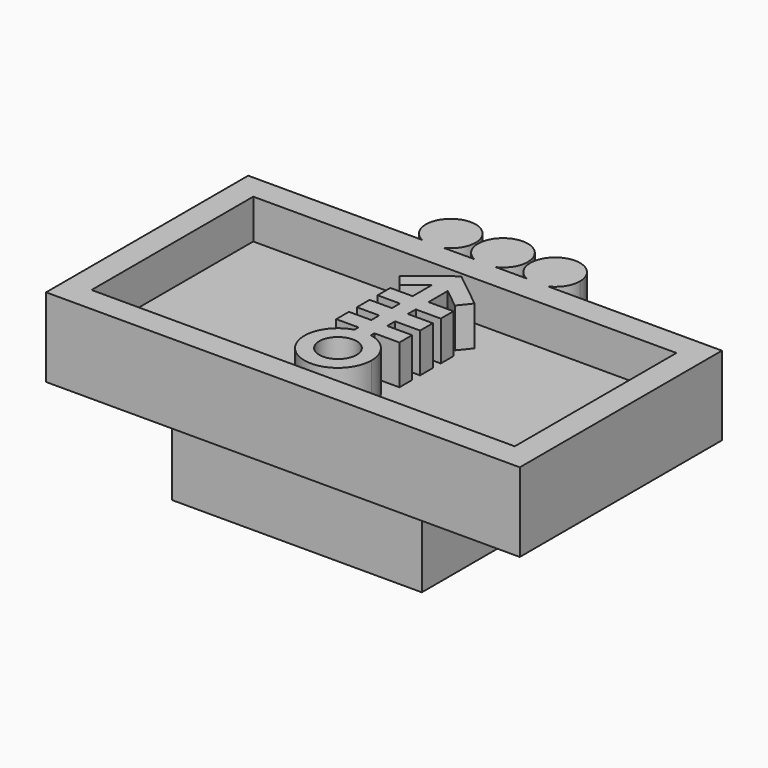
from build123d import *

# Parameters (mm, degrees)
F1_DEPTH = 3.175
F2_W     = 17.018
F2_H     = 8.128
F3_DEPTH = 1.5875
F4_W     = 10.05
F4_H     = 8.76
F5_DEPTH = 3
F6_R     = 3.5
F7_DEPTH = 3.5
F8_R     = 0.75
F8_W     = 0.64
F8_H     = 0.64
F8_W_2   = 1.0036083104
F8_W_3   = 0.8963916896
F8_H_2   = 0.4
F9_DEPTH = 1.5875


with BuildPart() as f1:
    # F0 (on Top) → F1 (new body)
    with BuildSketch(Plane.XY):
        with BuildLine():
            Line((-12.0608898944, 10.16), (-19.05, 10.16))
            Line((-19.05, 10.16), (-19.05, 0))
            Line((-19.05, 0), (0, 0))
            Line((0, 0), (0, 10.16))
            Line((0, 10.16), (-6.9891101056, 10.16))
            ThreePointArc((-6.9891101056, 10.16), (-7.425, 10.06), (-7.8608898944, 10.16))
            Line((-7.8608898944, 10.16), (-9.0891101056, 10.16))
            ThreePointArc((-9.0891101056, 10.16), (-9.525, 10.06), (-9.9608898944, 10.16))
            Line((-9.9608898944, 10.16), (-11.1891101056, 10.16))
            ThreePointArc((-11.1891101056, 10.16), (-11.625, 10.06), (-12.0608898944, 10.16))
        make_face()
        with BuildLine():
            ThreePointArc((-10.625, 11.06), (-12.1560885546, 11.9073163206), (-12.0608898944, 10.16))
            Line((-12.0608898944, 10.16), (-11.1891101056, 10.16))
            ThreePointArc((-11.1891101056, 10.16), (-10.7776836794, 10.5289114454), (-10.625, 11.06))
        make_face()
        with BuildLine():
            Line((-11.1891101056, 10.16), (-12.0608898944, 10.16))
            ThreePointArc((-12.0608898944, 10.16), (-11.625, 10.06), (-11.1891101056, 10.16))
        make_face()
        with BuildLine():
            ThreePointArc((-8.525, 11.06), (-10.0560885546, 11.9073163206), (-9.9608898944, 10.16))
            Line((-9.9608898944, 10.16), (-9.0891101056, 10.16))
            ThreePointArc((-9.0891101056, 10.16), (-8.6776836794, 10.5289114454), (-8.525, 11.06))
        make_face()
        with BuildLine():
            Line((-9.0891101056, 10.16), (-9.9608898944, 10.16))
            ThreePointArc((-9.9608898944, 10.16), (-9.525, 10.06), (-9.0891101056, 10.16))
        make_face()
        with BuildLine():
            ThreePointArc((-7.8608898944, 10.16), (-7.425, 10.06), (-6.9891101056, 10.16))
            Line((-6.9891101056, 10.16), (-7.8608898944, 10.16))
        make_face()
        with BuildLine():
            Line((-7.8608898944, 10.16), (-6.9891101056, 10.16))
            ThreePointArc((-6.9891101056, 10.16), (-6.5776836794, 10.5289114454), (-6.425, 11.06))
            ThreePointArc((-6.425, 11.06), (-7.9560885546, 11.9073163206), (-7.8608898944, 10.16))
        make_face()
    extrude(amount=F1_DEPTH)

    # F2 (on face) → F3 (cut)
    with BuildSketch(Plane.XY.offset(3.175)):
        with Locations((-9.525, 5.08)):
            Rectangle(F2_W, F2_H)
    extrude(amount=-F3_DEPTH, mode=Mode.SUBTRACT)

    # F4 (on face) → F5 (join)
    with BuildSketch(Plane(origin=(0, 0, 0), x_dir=(1, 0, 0), z_dir=(0, 0, -1))):
        with Locations((-9.525, -5.08)):
            Rectangle(F4_W, F4_H)
    extrude(amount=F5_DEPTH)

    # F6 (on face) → F7 (cut)
    with BuildSketch(Plane(origin=(0, 0, -3), x_dir=(1, 0, 0), z_dir=(0, 0, -1))):
        with Locations((-9.525, -5.08)):
            Circle(F6_R)
    extrude(amount=-F7_DEPTH, mode=Mode.SUBTRACT)

    # F8 (on face) → F9 (join, through all)
    with BuildSketch(Plane.XY.offset(1.5875)):
        with BuildLine():
            ThreePointArc((-9.8986083104, 4.0632728435), (-10.3368278084, 1.6873732761), (-8.175, 2.766))
            ThreePointArc((-8.175, 2.766), (-8.4804597229, 3.6212400888), (-9.2586083104, 4.0894558805))
            ThreePointArc((-9.2586083104, 4.0894558805), (-9.5801836824, 4.1148716622), (-9.8986083104, 4.0632728435))
        make_face()
        with Locations((-9.525, 2.766)):
            Circle(F8_R, mode=Mode.SUBTRACT)
        with BuildLine():
            ThreePointArc((-9.8986083104, 4.0632728435), (-9.5801836824, 4.1148716622), (-9.2586083104, 4.0894558805))
            Line((-9.2586083104, 4.0894558805), (-9.2586083104, 4.266))
            Line((-9.2586083104, 4.266), (-9.8986083104, 4.266))
            Line((-9.8986083104, 4.266), (-9.8986083104, 4.0632728435))
        make_face()
        with Locations((-9.5786083104, 4.586)):
            Rectangle(F8_W, F8_H)
        with Locations((-8.7568041552, 4.586)):
            Rectangle(F8_W_2, F8_H)
        with Locations((-10.3468041552, 4.586)):
            Rectangle(F8_W_3, F8_H)
        with Locations((-9.5786083104, 5.106)):
            Rectangle(F8_W, F8_H_2)
        with Locations((-9.5786083104, 5.626)):
            Rectangle(F8_W, F8_H)
        with Locations((-8.7568041552, 5.626)):
            Rectangle(F8_W_2, F8_H)
        with Locations((-10.3468041552, 5.626)):
            Rectangle(F8_W_3, F8_H)
        with Locations((-9.5786083104, 6.146)):
            Rectangle(F8_W, F8_H_2)
        with Locations((-9.5786083104, 6.666)):
            Rectangle(F8_W, F8_H)
        with Locations((-8.7568041552, 6.666)):
            Rectangle(F8_W_2, F8_H)
        with Locations((-10.3468041552, 6.666)):
            Rectangle(F8_W_3, F8_H)
        Polygon((-9.8986083104, 6.986), (-9.2586083104, 6.986), (-9.2586083104, 7.9498032218), (-9.2586083104, 8.763), (-9.8986083104, 8.763), (-9.8986083104, 7.9498032218), align=None)
        Polygon((-9.2586083104, 8.763), (-9.2586083104, 7.9498032218), (-8.4652456, 7.3151130535), (-8.0685642448, 7.8109647475), align=None)
        Polygon((-10.6919710208, 7.3151130535), (-9.8986083104, 7.9498032218), (-9.8986083104, 8.763), (-11.088652376, 7.8109647475), align=None)
        Polygon((-9.8986083104, 8.763), (-9.2586083104, 8.763), (-9.525, 8.9761133517), align=None)
    extrude(amount=F9_DEPTH)


solid = f1.part
